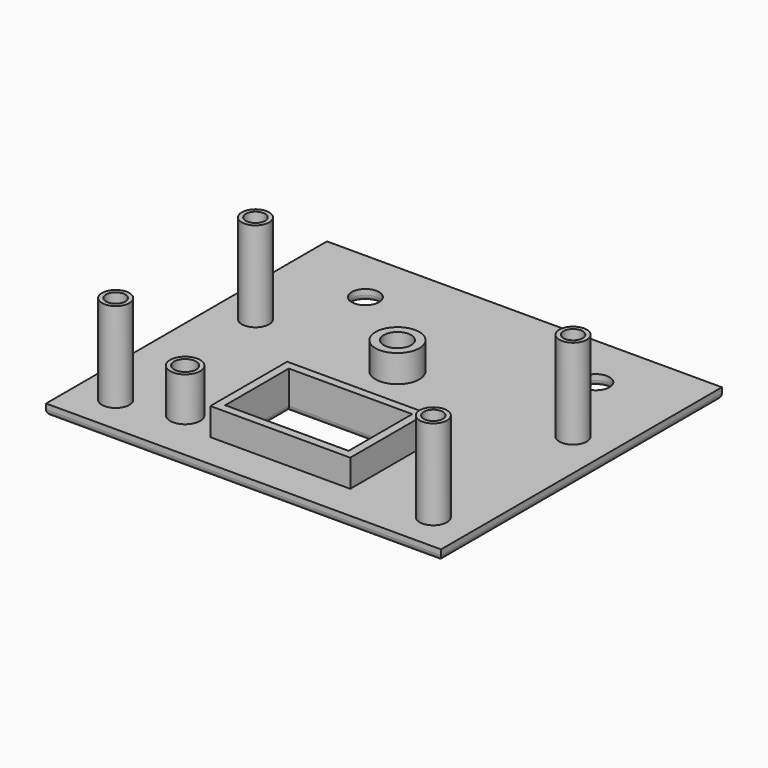
from build123d import *

# Parameters (mm, degrees)
SKETCH_W      = 72
SKETCH_H      = 64
SKETCH_R      = 2.5
SKETCH_R_2    = 2
SKETCH_R_3    = 1.75
SKETCH_W_2    = 22.5
SKETCH_H_2    = 14.5
PAD_DEPTH     = 2
SKETCH012_R   = 2.5
SKETCH012_R_2 = 1.75
PAD001_DEPTH  = 16.35
SKETCH013_R   = 2.75
SKETCH013_R_2 = 2
PAD002_DEPTH  = 8
SKETCH014_R   = 4
SKETCH014_R_2 = 2.5
SKETCH014_W   = 25.5
SKETCH014_H   = 17.5
SKETCH014_W_2 = 22.5
SKETCH014_H_2 = 14.5
PAD003_DEPTH  = 5
FILLET_R      = 1


with BuildPart() as part:
    # Sketch → Pad (new body)
    with BuildSketch(Plane.XY):
        Rectangle(SKETCH_W, SKETCH_H)
        with Locations((-21, 22)):
            Circle(SKETCH_R, mode=Mode.SUBTRACT)
        with Locations((21, 22)):
            Circle(SKETCH_R, mode=Mode.SUBTRACT)
        with Locations((-18.25, -22.5)):
            Circle(SKETCH_R_2, mode=Mode.SUBTRACT)
        with Locations((-3.15, 7)):
            Circle(SKETCH_R, mode=Mode.SUBTRACT)
        with Locations((-28.95, -24.95)):
            Circle(SKETCH_R_3, mode=Mode.SUBTRACT)
        with Locations((28.95, -24.95)):
            Circle(SKETCH_R_3, mode=Mode.SUBTRACT)
        with Locations((-28.95, 6.9)):
            Circle(SKETCH_R_3, mode=Mode.SUBTRACT)
        with Locations((28.95, 6.9)):
            Circle(SKETCH_R_3, mode=Mode.SUBTRACT)
        with Locations((1.5, -16.75)):
            Rectangle(SKETCH_W_2, SKETCH_H_2, mode=Mode.SUBTRACT)
    extrude(amount=PAD_DEPTH)

    # Sketch012 → Pad001 (join)
    with BuildSketch(Plane.XY.offset(2)):
        with Locations((28.95, -24.95)):
            Circle(SKETCH012_R)
        with Locations((28.95, -24.95)):
            Circle(SKETCH012_R_2, mode=Mode.SUBTRACT)
        with Locations((28.95, 6.9)):
            Circle(SKETCH012_R)
        with Locations((28.95, 6.9)):
            Circle(SKETCH012_R_2, mode=Mode.SUBTRACT)
        with Locations((-28.95, -24.95)):
            Circle(SKETCH012_R)
        with Locations((-28.95, -24.95)):
            Circle(SKETCH012_R_2, mode=Mode.SUBTRACT)
        with Locations((-28.95, 6.9)):
            Circle(SKETCH012_R)
        with Locations((-28.95, 6.9)):
            Circle(SKETCH012_R_2, mode=Mode.SUBTRACT)
    extrude(amount=PAD001_DEPTH)

    # Sketch013 (on Face5 of Pad001) → Pad002 (join)
    with BuildSketch(Plane.XY.offset(2)):
        with Locations((-18.25, -22.5)):
            Circle(SKETCH013_R)
        with Locations((-18.25, -22.5)):
            Circle(SKETCH013_R_2, mode=Mode.SUBTRACT)
    extrude(amount=PAD002_DEPTH)

    # Sketch014 (on Face5 of Pad002) → Pad003 (join)
    with BuildSketch(Plane.XY.offset(2)):
        with Locations((-3.15, 7)):
            Circle(SKETCH014_R)
        with Locations((-3.15, 7)):
            Circle(SKETCH014_R_2, mode=Mode.SUBTRACT)
        with Locations((1.5, -16.75)):
            Rectangle(SKETCH014_W, SKETCH014_H)
        with Locations((1.5, -16.75)):
            Rectangle(SKETCH014_W_2, SKETCH014_H_2, mode=Mode.SUBTRACT)
    extrude(amount=PAD003_DEPTH)

    # Fillet
    fillet_edges = [part.edges().sort_by_distance(p)[0] for p in [
        (0, 32, 0),
        (36, 0, 0),
        (0, -32, 0),
        (-36, 0, 0),
        (-9.75, -16.75, 0),
        (1.5, -24, 0),
        (12.75, -16.75, 0),
        (1.5, -9.5, 0),
        (-5.65, 7, 0),
        (18.5, 22, 0),
        (-23.5, 22, 0),
        (-20.25, -22.5, 0),
        (-30.7, 6.9, 0),
        (27.2, 6.9, 0),
        (27.2, -24.95, 0),
        (-30.7, -24.95, 0),
    ]]
    fillet(fillet_edges, radius=FILLET_R)


solid = part.part
